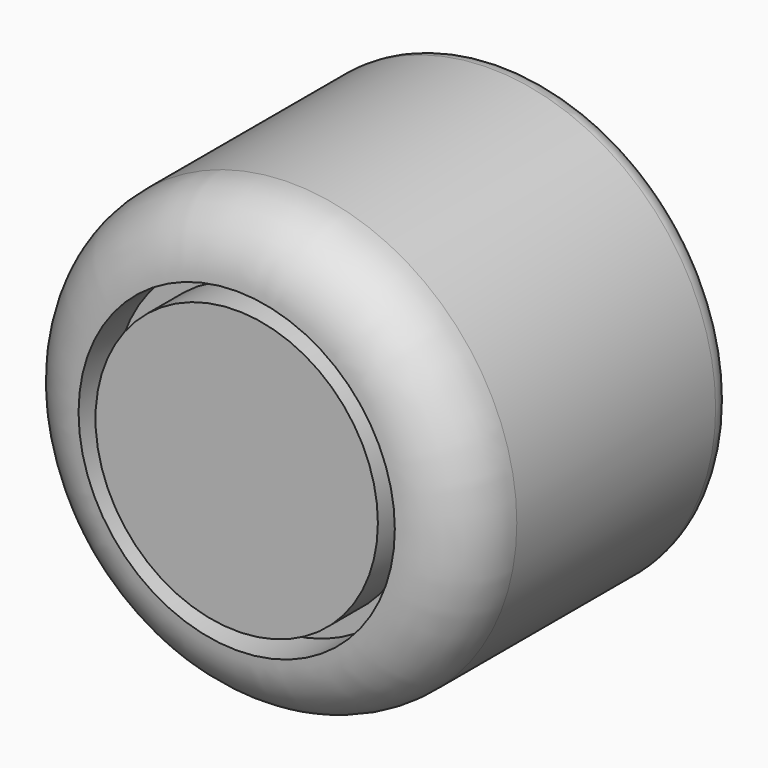
from build123d import *

# Parameters (mm, degrees)
F0_R     = 10
F1_DEPTH = 15
F2_R     = 3
F3_R     = 1
F4_R     = 2
F5_DEPTH = 4
F6_R     = 7
F6_R_2   = 6.25
F8_DEPTH = 2


with BuildPart() as f1:
    # F0 (on Front) → F1 (new body)
    with BuildSketch(Plane.XZ):
        Circle(F0_R)
    extrude(amount=F1_DEPTH)

    # F2
    f2_edges = [f1.edges().sort_by_distance(p)[0] for p in [
        (-10, -15, 0),
    ]]
    fillet(f2_edges, radius=F2_R)

    # F3
    f3_edges = [f1.edges().sort_by_distance(p)[0] for p in [
        (-10, 0, 0),
    ]]
    fillet(f3_edges, radius=F3_R)

    # F4 (on face) → F5 (cut)
    with BuildSketch(Plane(origin=(0, 0, 0), x_dir=(-1, 0, 0), z_dir=(0, 1, 0))):
        Circle(F4_R)
    extrude(amount=-F5_DEPTH, mode=Mode.SUBTRACT)

    # F6 (on face) → F8 (cut)
    with BuildSketch(Plane.XZ.offset(15)):
        Circle(F6_R)
        Circle(F6_R_2, mode=Mode.SUBTRACT)
    extrude(amount=-F8_DEPTH, mode=Mode.SUBTRACT)


solid = f1.part
